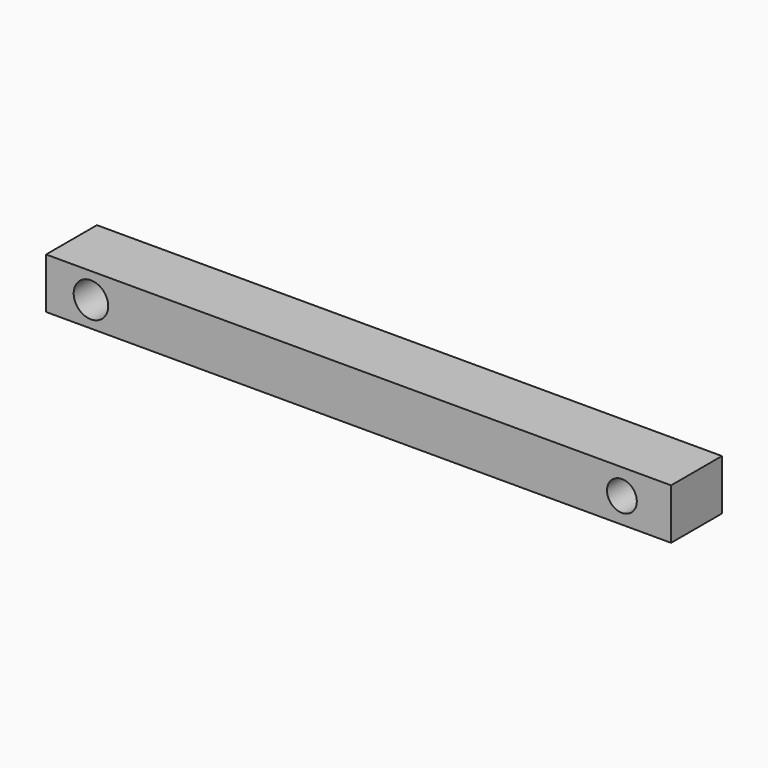
from build123d import *

# Parameters (mm, degrees)
F0_W     = 124.95087
F0_H     = 10.123328
F0_R     = 3.449703
F0_R_2   = 2.981406
F1_DEPTH = 6.35


with BuildPart() as f1:
    # F0 (on Front) → F1 (new body, symmetric)
    with BuildSketch(Plane.XZ):
        Rectangle(F0_W, F0_H)
        with Locations((-53.509053, 0)):
            Circle(F0_R, mode=Mode.SUBTRACT)
        with Locations((52.641336, 0)):
            Circle(F0_R_2, mode=Mode.SUBTRACT)
    extrude(amount=F1_DEPTH, both=True)


solid = f1.part
